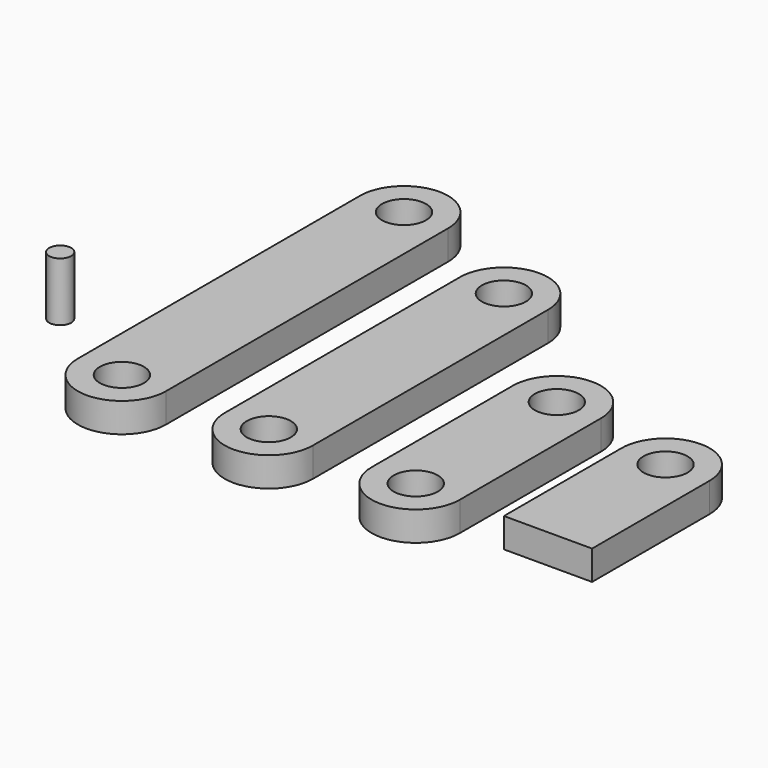
from build123d import *

# Parameters (mm, degrees)
F1_R     = 7.5
F2_DEPTH = 10
F1_R_2   = 3.75
F3_DEPTH = 20


with BuildPart() as f2:
    # F1 (on Top) → F2 (new body)
    with BuildSketch(Plane.XY):
        with BuildLine():
            Line((-35, 0), (-35, 120))
            ThreePointArc((-35, 120), (-50, 135), (-65, 120))
            Line((-65, 120), (-65, 0))
            ThreePointArc((-65, 0), (-50, -15), (-35, 0))
        make_face()
        with Locations((-50, 0)):
            Circle(F1_R, mode=Mode.SUBTRACT)
        with Locations((-50, 120)):
            Circle(F1_R, mode=Mode.SUBTRACT)
    extrude(amount=F2_DEPTH)


with BuildPart() as f2b:
    # F1 (on Top) → F2, piece 2 (new body)
    with BuildSketch(Plane.XY):
        with BuildLine():
            Line((-15, 50), (-15, 0))
            ThreePointArc((-15, 0), (0, -15), (15, 0))
            Line((15, 0), (15, 50))
            Line((15, 50), (15, 100))
            ThreePointArc((15, 100), (0, 115), (-15, 100))
            Line((-15, 100), (-15, 50))
        make_face()
        Circle(F1_R, mode=Mode.SUBTRACT)
        with Locations((0, 100)):
            Circle(F1_R, mode=Mode.SUBTRACT)
    extrude(amount=F2_DEPTH)


with BuildPart() as f2c:
    # F1 (on Top) → F2, piece 3 (new body)
    with BuildSketch(Plane.XY):
        with BuildLine():
            Line((35, 30), (35, 0))
            ThreePointArc((35, 0), (50, -15), (65, 0))
            Line((65, 0), (65, 30))
            Line((65, 30), (65, 60))
            ThreePointArc((65, 60), (50, 75), (35, 60))
            Line((35, 60), (35, 30))
        make_face()
        with Locations((50, 0)):
            Circle(F1_R, mode=Mode.SUBTRACT)
        with Locations((50, 60)):
            Circle(F1_R, mode=Mode.SUBTRACT)
    extrude(amount=F2_DEPTH)


with BuildPart() as f2d:
    # F1 (on Top) → F2, piece 4 (new body)
    with BuildSketch(Plane.XY):
        with BuildLine():
            Line((80, 50), (80, 0))
            Line((80, 0), (110, 0))
            Line((110, 0), (110, 50))
            ThreePointArc((110, 50), (95, 65), (80, 50))
        make_face()
        with Locations((95, 50)):
            Circle(F1_R, mode=Mode.SUBTRACT)
    extrude(amount=F2_DEPTH)


with BuildPart() as f3:
    # F1 (on Top) → F3 (new body)
    with BuildSketch(Plane.XY):
        with Locations((-95, 30)):
            Circle(F1_R_2)
    extrude(amount=F3_DEPTH)


solid = Compound([f2.part, f2b.part, f2c.part, f2d.part, f3.part])
